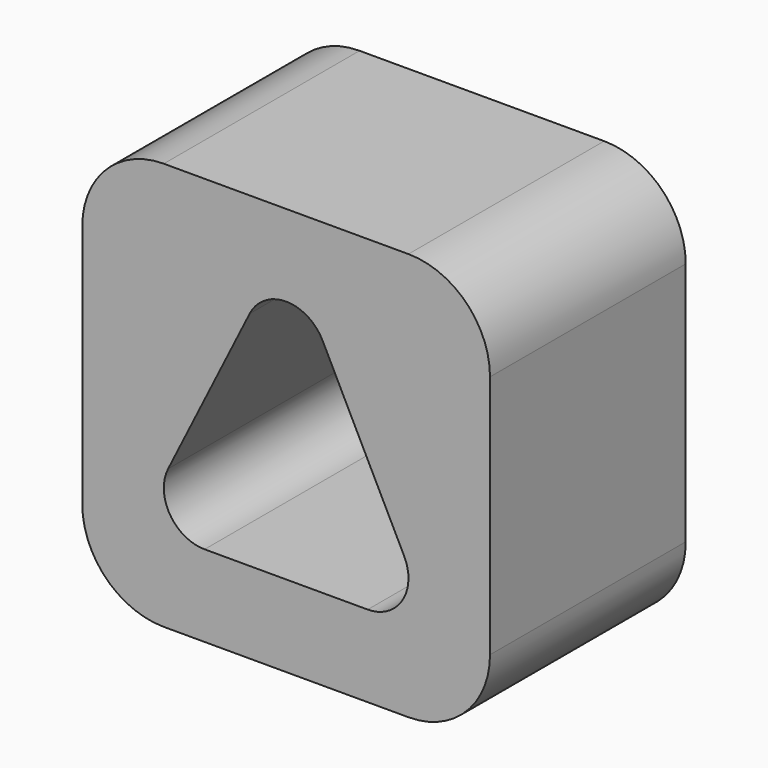
from build123d import *

# Parameters (mm, degrees)
F0_W     = 63.5
F0_H     = 63.5
F1_DEPTH = 38.1
F2_R     = 12.7


with BuildPart() as f1:
    # F0 (on Front) → F1 (new body)
    with BuildSketch(Plane.XZ):
        with Locations((31.75, 31.75)):
            Rectangle(F0_W, F0_H)
        with BuildLine():
            ThreePointArc((19.05, 12.7), (13.648367, 15.711607), (13.370387, 21.889806))
            Line((13.370387, 21.889806), (26.070387, 47.289806))
            ThreePointArc((26.070387, 47.289806), (31.75, 50.8), (37.429613, 47.289806))
            Line((37.429613, 47.289806), (50.129613, 21.889806))
            ThreePointArc((50.129613, 21.889806), (49.851633, 15.711607), (44.45, 12.7))
            Line((44.45, 12.7), (19.05, 12.7))
        make_face(mode=Mode.SUBTRACT)
    extrude(amount=-F1_DEPTH)

    # F2
    f2_edges = [f1.edges().sort_by_distance(p)[0] for p in [
        (0, 19.05, 63.5),
        (63.5, 19.05, 63.5),
        (0, 19.05, 0),
        (63.5, 19.05, 0),
    ]]
    fillet(f2_edges, radius=F2_R)


solid = f1.part
